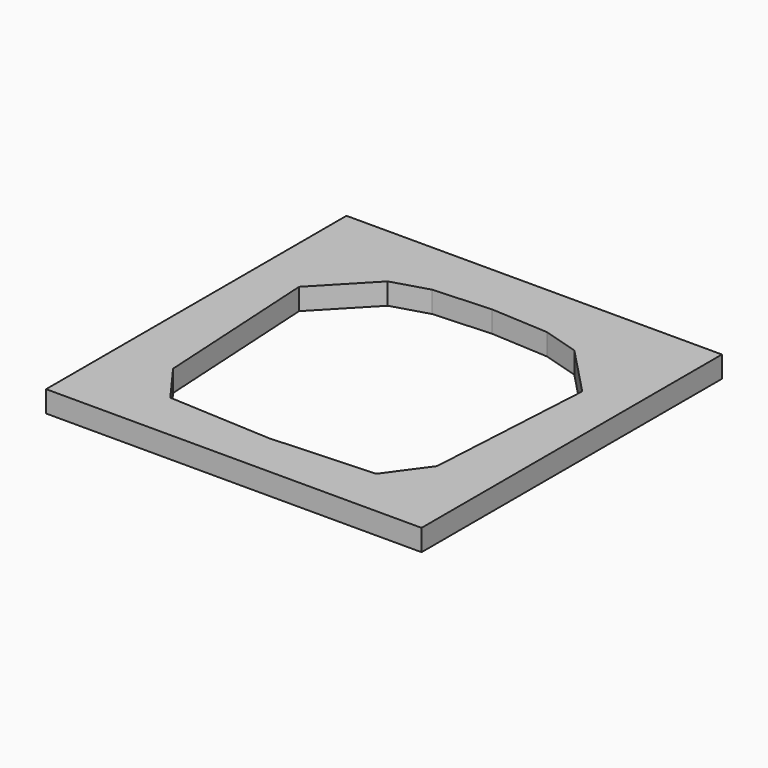
from build123d import *

# Parameters (mm, degrees)
F1_DEPTH = 2


with BuildPart() as f1:
    # F0 (on Top) → F1 (new body)
    with BuildSketch(Plane.XY):
        Polygon((-17.5, -4.1), (0, -4.1), (17.5, -4.1), (17.5, 30.9), (0, 30.9), (-17.5, 30.9), align=None)
        Polygon((9.6, 0.5), (0, 0), (-9.6, 0.5), (-12.3, 4.2), (-13.2, 20), (-8.7, 24.7), (-5.35, 25.7), (0, 26), (5.35, 25.7), (8.7, 24.7), (13.2, 20), (12.3, 4.2), align=None, mode=Mode.SUBTRACT)
    extrude(amount=F1_DEPTH)


solid = f1.part
